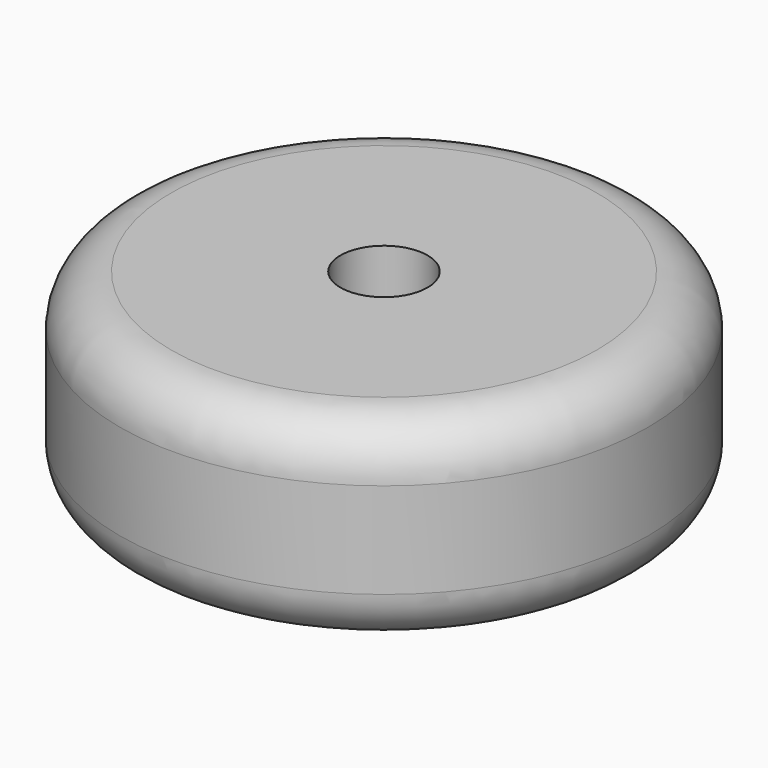
from build123d import *

# Parameters (mm, degrees)
F0_W = 54.622126
F0_H = 49.075346
F0_R = 12.7
F2_R = 12.7


with BuildPart() as f1:
    # F0 (on Front) → F1 (revolve)
    with BuildSketch(Plane.XZ):
        with Locations((38.1, 0)):
            Rectangle(F0_W, F0_H)
        with Locations((38.1, 0)):
            Circle(F0_R, mode=Mode.SUBTRACT)
        with Locations((38.1, 0)):
            Circle(F0_R)
    revolve(axis=Axis((0, 0, 0), (0, 0, -1)))

    # F2
    f2_edges = [f1.edges().sort_by_distance(p)[0] for p in [
        (-65.411063, 0, 24.537673),
        (-65.411063, 0, -24.537673),
    ]]
    fillet(f2_edges, radius=F2_R)


solid = f1.part
